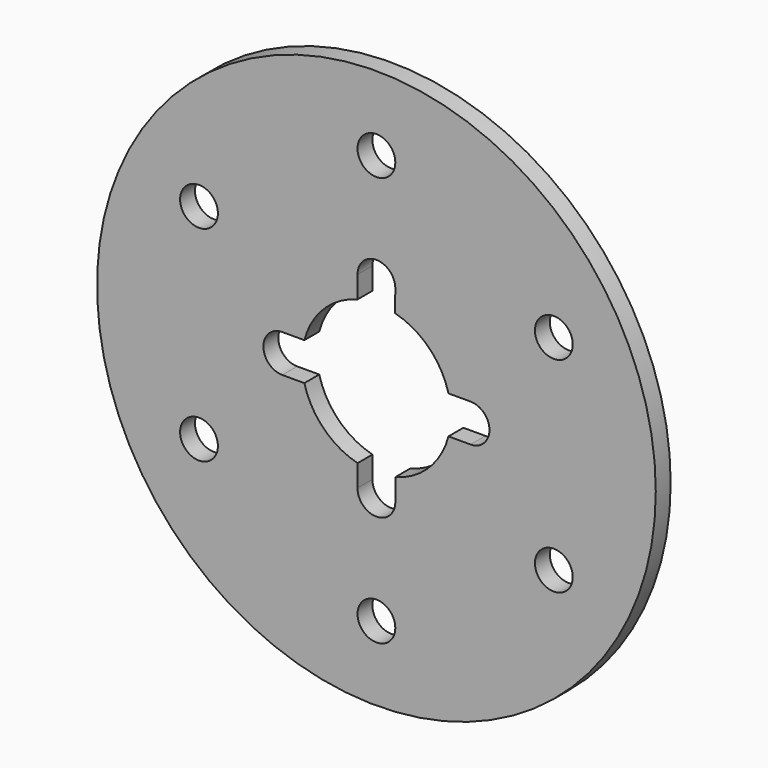
from build123d import *

# Parameters (mm, degrees)
F0_R     = 75
F0_R_2   = 5.0733901358
F1_DEPTH = 5


with BuildPart() as f1:
    # F0 (on Front) → F1 (new body)
    with BuildSketch(Plane.XZ):
        Circle(F0_R)
        with Locations((-47.6313972081, -27.5)):
            Circle(F0_R_2, mode=Mode.SUBTRACT)
        with Locations((0, -55)):
            Circle(F0_R_2, mode=Mode.SUBTRACT)
        with Locations((47.6313972081, -27.5)):
            Circle(F0_R_2, mode=Mode.SUBTRACT)
        with Locations((-47.6313972081, 27.5)):
            Circle(F0_R_2, mode=Mode.SUBTRACT)
        with BuildLine():
            ThreePointArc((-19.3458189935, 5.0733901358), (-14.1420210215, 14.142250225), (-5.0730765947, 19.3459012161))
            Line((-5.0730765947, 19.3459012161), (-5.0730765947, 25.2115665033))
            ThreePointArc((-5.0730765947, 25.2115665033), (0, 30.3413599527), (5.0730765947, 25.2115665033))
            Line((5.0730765947, 25.2115665033), (5.0080494379, 19.3628365904))
            ThreePointArc((5.0080494379, 19.3628365904), (14.1182434066, 14.1659875445), (19.3458189935, 5.0733901358))
            Line((19.3458189935, 5.0733901358), (25.2679698169, 5.0733901358))
            ThreePointArc((25.2679698169, 5.0733901358), (30.3413599527, 0), (25.2679698169, -5.0733901358))
            Line((25.2679698169, -5.0733901358), (19.3458189935, -5.0733901358))
            ThreePointArc((19.3458189935, -5.0733901358), (14.1421356237, -14.1421356237), (5.0733901358, -19.3458189935))
            Line((5.0733901358, -19.3458189935), (5.0733901358, -25.2679698169))
            ThreePointArc((5.0733901358, -25.2679698169), (-0.0282020925, -30.3412815668), (-5.0730765947, -25.2115665033))
            Line((-5.0730765947, -25.2115665033), (-5.0730765947, -19.3459012161))
            ThreePointArc((-5.0730765947, -19.3459012161), (-14.1420210215, -14.142250225), (-19.3458189935, -5.0733901358))
            Line((-19.3458189935, -5.0733901358), (-25.2679698169, -5.0733901358))
            ThreePointArc((-25.2679698169, -5.0733901358), (-30.3413599527, 0), (-25.2679698169, 5.0733901358))
            Line((-25.2679698169, 5.0733901358), (-19.3458189935, 5.0733901358))
        make_face(mode=Mode.SUBTRACT)
        with Locations((47.6313972081, 27.5)):
            Circle(F0_R_2, mode=Mode.SUBTRACT)
        with Locations((0, 55)):
            Circle(F0_R_2, mode=Mode.SUBTRACT)
    extrude(amount=F1_DEPTH)


solid = f1.part
